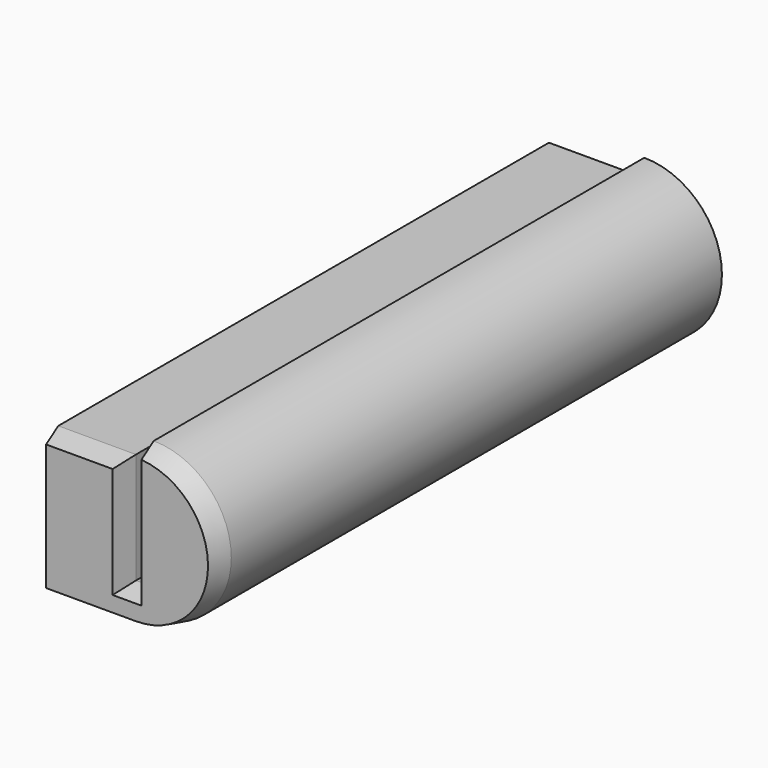
from build123d import *

# Parameters (mm, degrees)
F1_DEPTH = 57.3
F2_SIZE2 = 0.5
F2_SIZE  = 2


with BuildPart() as f1:
    # F0 (on Front) → F1 (new body)
    with BuildSketch(Plane.XZ):
        with BuildLine():
            Line((0, 12.4), (0, 0))
            Line((0, 0), (8.6, 0))
            ThreePointArc((8.6, 0), (15.6, 7), (8.6, 14))
            Line((8.6, 14), (8.6, 2.4))
            Line((8.6, 2.4), (7, 2.4))
            Line((7, 2.4), (7, 12.4))
            Line((7, 12.4), (0, 12.4))
        make_face()
    extrude(amount=F1_DEPTH)

    # F2
    f2_edges = [f1.edges().sort_by_distance(p)[0] for p in [
        (7, -57.3, 7.4),
        (3.5, -57.3, 12.4),
        (0, -57.3, 6.2),
        (4.3, -57.3, 0),
        (15.6, -57.3, 7),
        (8.6, -57.3, 8.2),
        (7.8, -57.3, 2.4),
    ]]
    chamfer(f2_edges, length=F2_SIZE, length2=F2_SIZE2)


solid = f1.part
